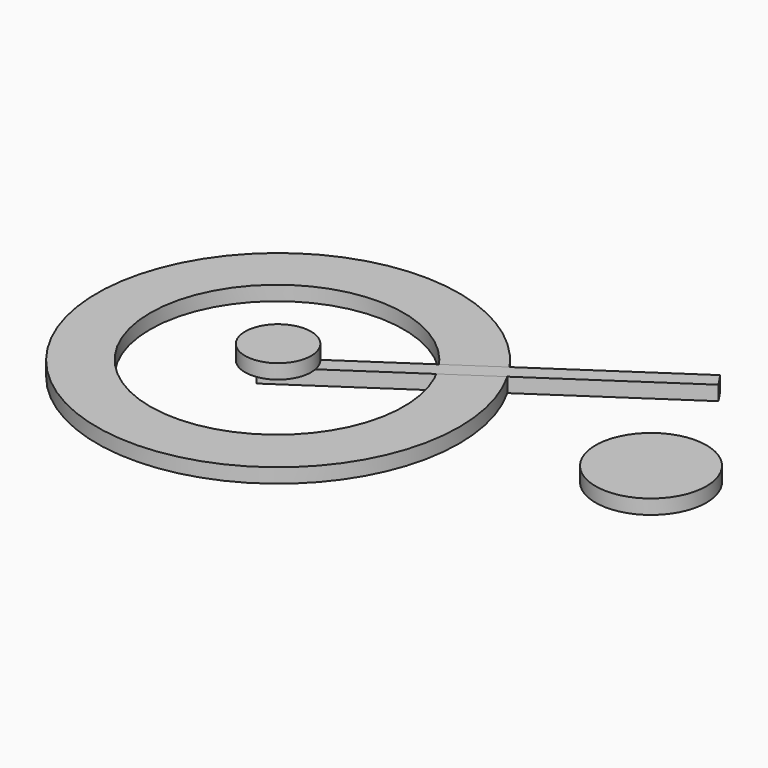
from build123d import *

# Parameters (mm, degrees)
F0_R     = 12.7
F1_DEPTH = 1.016
F4_D     = 17.78
F2_R     = 2.31276
F5_DEPTH = 1.016
F6_R     = 3.889342
F7_DEPTH = 1.016
F9_DEPTH = 1.016


with BuildPart() as f1:
    # F0 (on Top) → F1 (new body)
    with BuildSketch(Plane.XY):
        with Locations((-17.417479, 0)):
            Circle(F0_R)
    extrude(amount=F1_DEPTH)

    # F4 (through all)
    with Locations(Plane.XY.offset(1.016)):
        with Locations((-17.495254, 0)):
            Hole(F4_D / 2)


with BuildPart() as f5:
    # F2 (on face) → F5 (new body)
    with BuildSketch(Plane.XY.offset(1.016)):
        with Locations((-17.417479, 0)):
            Circle(F2_R)
    extrude(amount=F5_DEPTH)


with BuildPart() as f7:
    # F6 (on Top) → F7 (new body)
    with BuildSketch(Plane.XY):
        with Locations((6.339503, 2.97921)):
            Circle(F6_R)
    extrude(amount=F7_DEPTH)


with BuildPart() as f9:
    # F8 (on Top) → F9 (new body)
    with BuildSketch(Plane.XY):
        Polygon((2.588258, 13.731278), (-17.825969, 0), (-17.825969, -1.376493), (3.225721, 12.783564), align=None)
    extrude(amount=F9_DEPTH)


solid = Compound([f1.part, f5.part, f7.part, f9.part])
